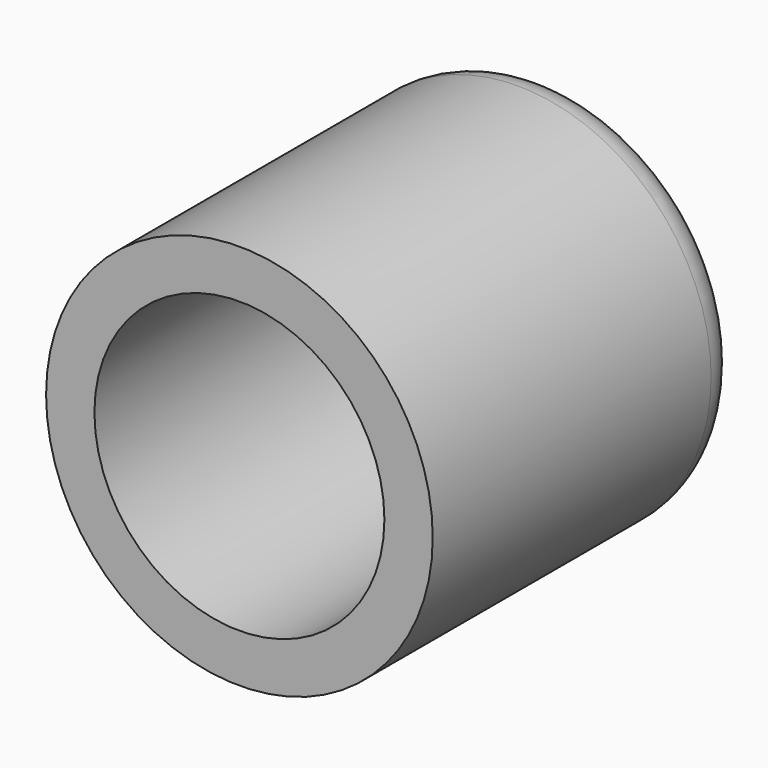
from build123d import *

# Parameters (mm, degrees)
F1_DEPTH = 3.5
F2_W     = 1
F2_H     = 3.968627
F3_DEPTH = 25
F4_R     = 10
F5_DEPTH = 20
F6_R     = 2
F7_R     = 7.5
F8_DEPTH = 15


with BuildPart() as f1:
    # F0 (on Top) → F1 (new body)
    with BuildSketch(Plane.XY):
        Polygon((0, 2.5), (0, 0), (3.5, 0), (3.5, 2.5), (4, 2.5), (1.75, 4.484313), (-0.5, 2.5), align=None)
    extrude(amount=F1_DEPTH)

    # F2 (on face) → F3 (cut)
    with BuildSketch(Plane.XY.offset(3.5)):
        with Locations((1.75, 4.484313)):
            Rectangle(F2_W, F2_H)
        Polygon((1.25, 4.043355), (1.25, 2.5), (2.25, 2.5), (2.25, 4.043355), (1.75, 4.484313), align=None)
    extrude(amount=-F3_DEPTH, mode=Mode.SUBTRACT)

    # F4 (on face) → F5 (join)
    with BuildSketch(Plane.XZ):
        with Locations((1.75, 1.75)):
            Circle(F4_R)
    extrude(amount=F5_DEPTH)

    # F6
    f6_edges = [f1.edges().sort_by_distance(p)[0] for p in [
        (-8.25, 0, 1.75),
    ]]
    fillet(f6_edges, radius=F6_R)

    # F7 (on face) → F8 (cut)
    with BuildSketch(Plane.XZ.offset(20)):
        with Locations((1.75, 1.75)):
            Circle(F7_R)
    extrude(amount=-F8_DEPTH, mode=Mode.SUBTRACT)


solid = f1.part
